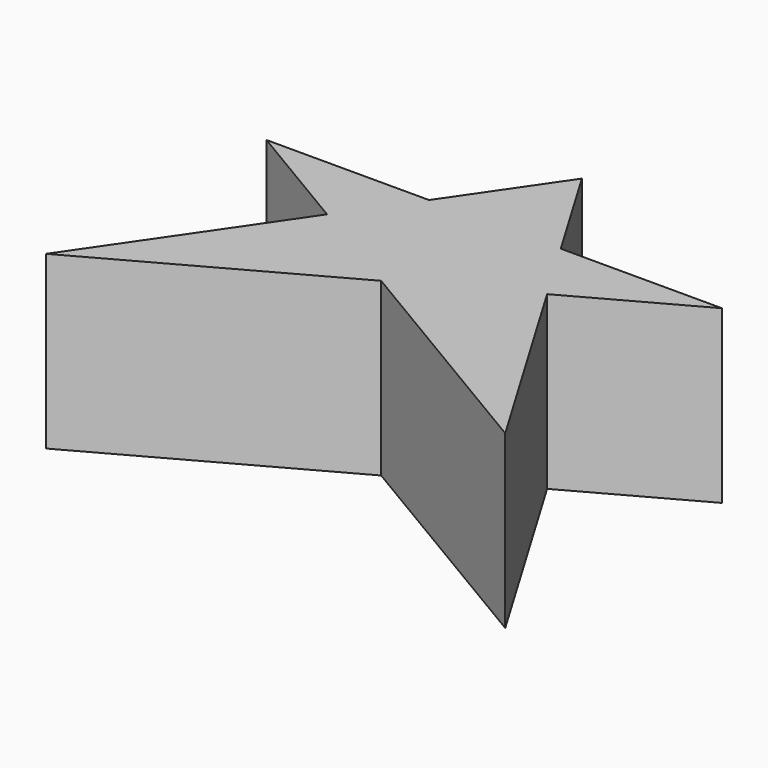
from build123d import *

# Parameters (mm, degrees)
F1_DEPTH = 25.4


with BuildPart() as f1:
    # F0 (on Top) → F1 (new body)
    with BuildSketch(Plane.XY):
        Polygon((-15.882185405, 24.0993984044), (-22.8546138605, 13.9243227965), (-7.5695225175, 4.832670828), (9.5184763813, 14.2160053126), (3.6384829167, 24.0993984044), align=None)
        Polygon((-39.961181581, 24.0993984044), (-22.8546138605, 13.9243227965), (-15.882185405, 24.0993984044), align=None)
        Polygon((3.6384829167, 24.0993984044), (9.5184763813, 14.2160053126), (27.5171324611, 24.0993984044), align=None)
        Polygon((-5.4333186708, 39.3477454782), (-15.882185405, 24.0993984044), (3.6384829167, 24.0993984044), align=None)
        Polygon((-22.8546138605, 13.9243227965), (-42.0644022524, -14.1091020778), (-7.5695225175, 4.832670828), align=None)
        Polygon((9.5184763813, 14.2160053126), (-7.5695225175, 4.832670828), (27.5171324611, -16.0370543599), align=None)
    extrude(amount=F1_DEPTH)


solid = f1.part
